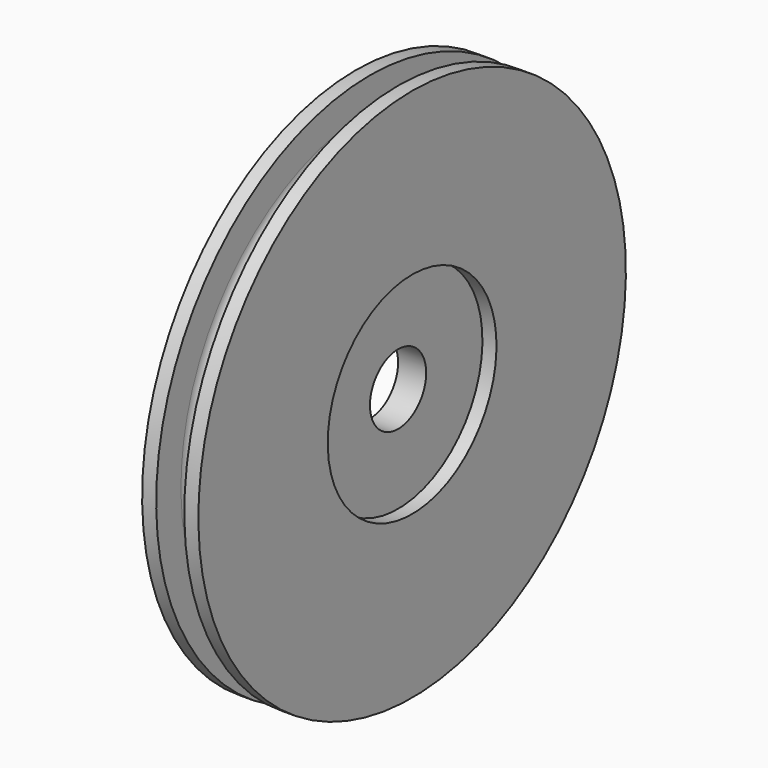
from build123d import *

# Parameters (mm, degrees)
F3_START = -5
F2_R     = 37.5
F2_R_2   = 12.5
F3_DEPTH = 10


with BuildPart() as f1:
    # F0 (on Front) → F1 (revolve)
    with BuildSketch(Plane.XZ):
        with BuildLine():
            Line((0, 95), (0, 37.5))
            Line((0, 37.5), (20, 37.5))
            Line((20, 37.5), (20, 95))
            Line((20, 95), (15, 95))
            Line((15, 95), (15, 84))
            ThreePointArc((15, 84), (10, 79), (5, 84))
            Line((5, 84), (5, 95))
            Line((5, 95), (0, 95))
        make_face()
    revolve(axis=Axis((28.1461849809, 0, 0), (1, 0, 0)))

    # F2 (on face) → F3 (join)
    with BuildSketch(Plane.YZ.offset(20).offset(F3_START)):
        Circle(F2_R)
        Circle(F2_R_2, mode=Mode.SUBTRACT)
    extrude(amount=-F3_DEPTH)


solid = f1.part
